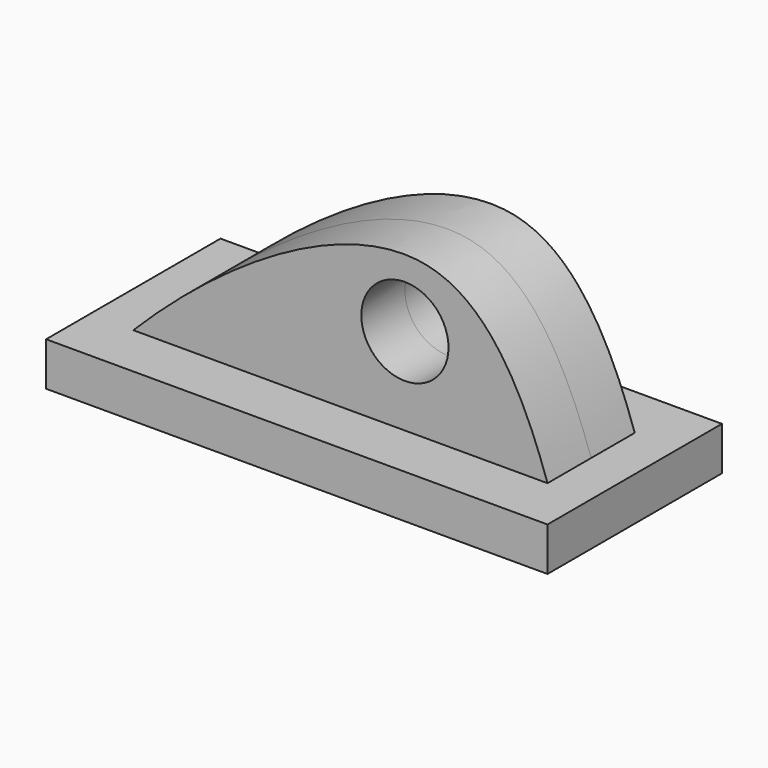
from build123d import *

# Parameters (mm, degrees)
F1_DEPTH = 25
F0_R     = 10
F2_DEPTH = 12.5


with BuildPart() as f1:
    # F0 (on Front) → F1 (new body, symmetric)
    with BuildSketch(Plane.XZ):
        Polygon((61.7862940956, 0), (-33.2137059044, 0), (-43.2137059044, 0), (-43.2137059044, -10), (71.7862940956, -10), (71.7862940956, 0), align=None)
    extrude(amount=F1_DEPTH, both=True)

    # F0 (on Front) → F2 (join, symmetric)
    with BuildSketch(Plane.XZ):
        with BuildLine():
            add(Edge.make_bspline(
                [(-33.2137059044, 0), (-10.8739413829, 22.4027355649), (37.2678980537, 51.3936268016), (55.9281312694, 17.2760705369), (61.7862940956, 0)],
                knots=[0, 0, 0, 0, 0.5662415812, 1, 1, 1, 1], degree=3))
            Line((-33.2137059044, 0), (61.7862940956, 0))
        make_face()
        with Locations((29.0805225076, 20)):
            Circle(F0_R, mode=Mode.SUBTRACT)
        Polygon((61.7862940956, 0), (-33.2137059044, 0), (-43.2137059044, 0), (-43.2137059044, -10), (71.7862940956, -10), (71.7862940956, 0), align=None)
    extrude(amount=F2_DEPTH, both=True)


solid = f1.part
